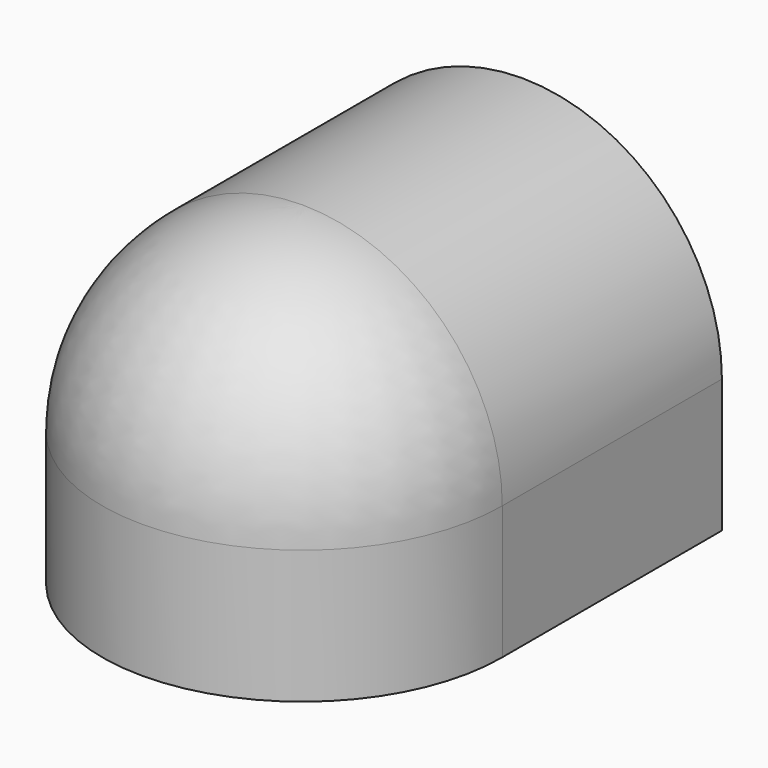
from build123d import *

# Parameters (mm, degrees)
F1_ANGLE = 180
F3_DEPTH = 35


with BuildPart() as f1:
    # F0 (on Front) → F1 (revolve)
    with BuildSketch(Plane.XZ):
        with BuildLine():
            ThreePointArc((0, 25), (17.67767, 17.67767), (25, 0))
            Line((25, 0), (25.5, 0))
            ThreePointArc((25.5, 0), (18.031223, 18.031223), (0, 25.5))
            Line((0, 25.5), (0, 25))
        make_face()
        with BuildLine():
            Line((25.5, 0), (25, 0))
            ThreePointArc((25, 0), (24.622145, -4.330127), (23.5, -8.529361))
            Line((23.5, -8.529361), (23.5, -17))
            Line((23.5, -17), (25.5, -17))
            Line((25.5, -17), (25.5, 0))
        make_face()
    revolve(axis=Axis((0, 0, 9.860388), (0, 0, -1)), revolution_arc=F1_ANGLE)

    # F2 (on face) → F3 (join)
    with BuildSketch(Plane(origin=(0, 0, 0), x_dir=(-1, 0, 0), z_dir=(0, 1, 0))):
        with BuildLine():
            ThreePointArc((25.5, 0), (0, 25.5), (-25.5, 0))
            Line((-25.5, 0), (-25.5, -17))
            Line((-25.5, -17), (-23.5, -17))
            Line((-23.5, -17), (-23.5, -8.529361))
            ThreePointArc((-23.5, -8.529361), (0, 25), (23.5, -8.529361))
            Line((23.5, -8.529361), (23.5, -17))
            Line((23.5, -17), (25.5, -17))
            Line((25.5, -17), (25.5, 0))
        make_face()
    extrude(amount=F3_DEPTH)


solid = f1.part
